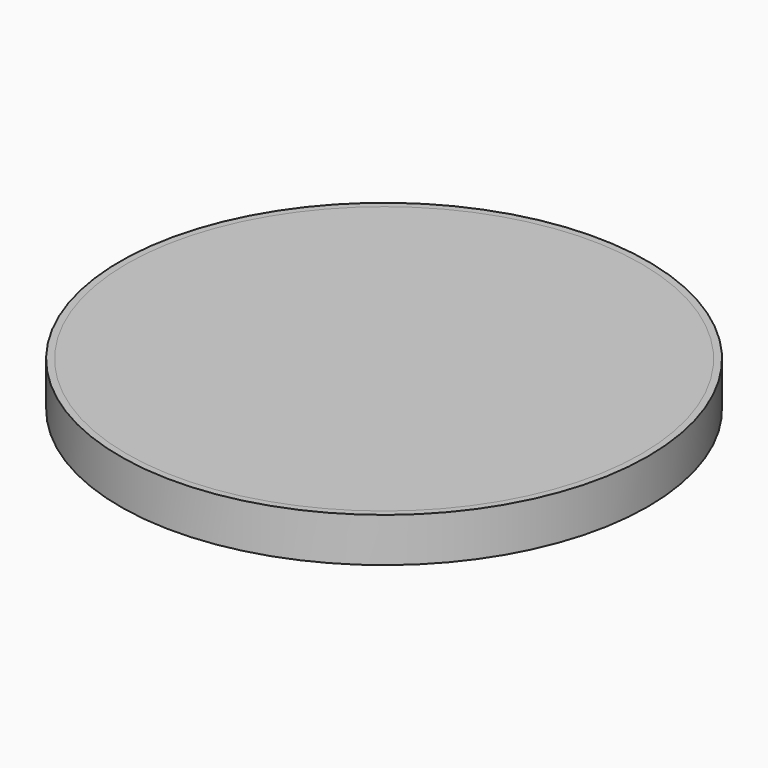
from build123d import *

# Parameters (mm, degrees)
F0_R     = 60
F0_R_2   = 58.5
F2_DEPTH = 10.052125901
F1_R     = 58.5


with BuildPart() as f2:
    # F0 (on Top) → F2 (new body)
    with BuildSketch(Plane.XY):
        Circle(F0_R)
        Circle(F0_R_2, mode=Mode.SUBTRACT)
    extrude(amount=-F2_DEPTH)


with BuildPart() as f2b:
    # F1 (on face) → F2, piece 2 (new body)
    with BuildSketch(Plane.XY):
        Circle(F1_R)
    extrude(amount=-F2_DEPTH)


solid = Compound([f2.part, f2b.part])
